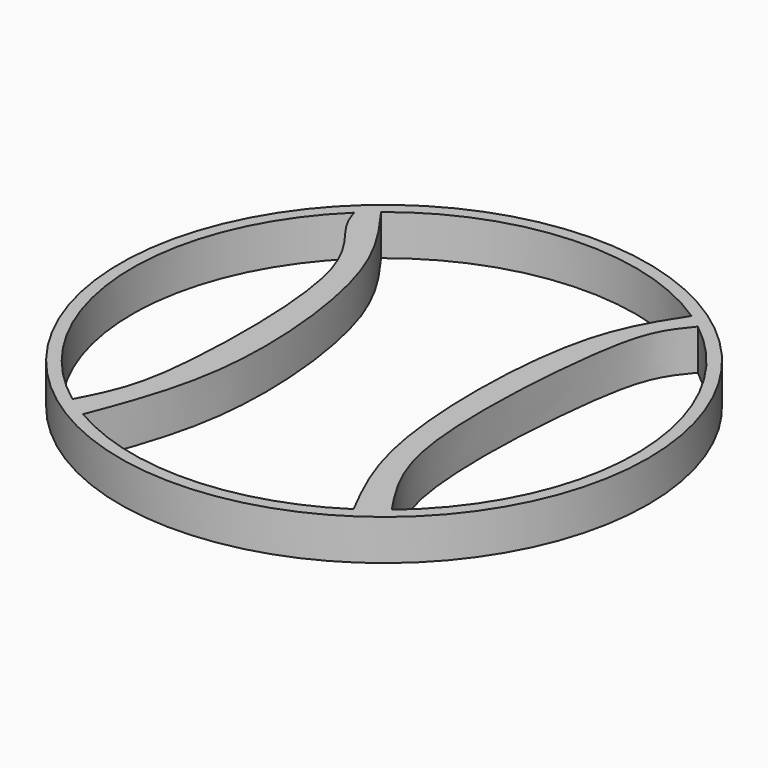
from build123d import *

# Parameters (mm, degrees)
F0_R     = 65
F1_DEPTH = 10


with BuildPart() as f1:
    # F0 (on Top) → F1 (new body)
    with BuildSketch(Plane.XY):
        Circle(F0_R)
        with BuildLine():
            ThreePointArc((-36.8746095084, -49.8423833058), (-61.8672343645, -4.055281999), (-43.0652938596, 44.6024715099))
            add(Edge.make_bspline(
                [(-43.0652938596, 44.6024715099), (-42.5033416405, 42.8911841499), (-40.9709017736, 38.303872311), (-28.4517087875, 25.7155025347), (-28.1837010223, -19.7066171871), (-31.1944319439, -39.0345282475), (-35.1854456212, -46.6187002101), (-36.8746095084, -49.8423833058)],
                knots=[0, 0, 0, 0, 0.1152986287, 0.3074272184, 0.6265847555, 0.8404975198, 1, 1, 1, 1], degree=3))
        make_face(mode=Mode.SUBTRACT)
        with BuildLine():
            add(Edge.make_bspline(
                [(-39.1798144104, 48.0514530765), (-34.6986380376, 41.8919884344), (-24.039370044, 27.2507644636), (-18.9528770593, -21.226282887), (-27.429139563, -43.304054129), (-31.3406179812, -53.495473309)],
                knots=[0, 0, 0, 0, 0.2814883048, 0.6679982518, 1, 1, 1, 1], degree=3))
            ThreePointArc((-39.1798144104, 48.0514530765), (-2.9323690605, 61.9306161094), (34.4643059461, 51.5384479361))
            add(Edge.make_bspline(
                [(34.4643059461, 51.5384479361), (30.6732095502, 45.6977064492), (21.0860305134, 30.9349836199), (20.4771082518, -25.5791064122), (29.9719090924, -44.0670076219), (33.9708584681, -51.8650245825)],
                knots=[0, 0, 0, 0, 0.2751403863, 0.6933987291, 1, 1, 1, 1], degree=3))
            ThreePointArc((33.9708584681, -51.8650245825), (1.5472982961, -61.9806894765), (-31.3406179812, -53.495473309))
        make_face(mode=Mode.SUBTRACT)
        with BuildLine():
            add(Edge.make_bspline(
                [(38.1658426028, 48.8607046451), (36.6822734458, 47.0441253501), (33.0431017142, 42.5919373879), (28.9205676695, 28.2980702425), (25.5719986033, -23.1181205281), (35.5872991076, -41.153613441), (38.716637719, -45.7833935118), (39.8659837323, -47.4837165885)],
                knots=[0, 0, 0, 0, 0.1291357873, 0.3137498794, 0.6595357661, 0.8748375082, 1, 1, 1, 1], degree=3))
            ThreePointArc((38.1658426028, 48.8607046451), (61.9903488941, 1.0939122415), (39.8659837323, -47.4837165885))
        make_face(mode=Mode.SUBTRACT)
    extrude(amount=F1_DEPTH)


solid = f1.part
